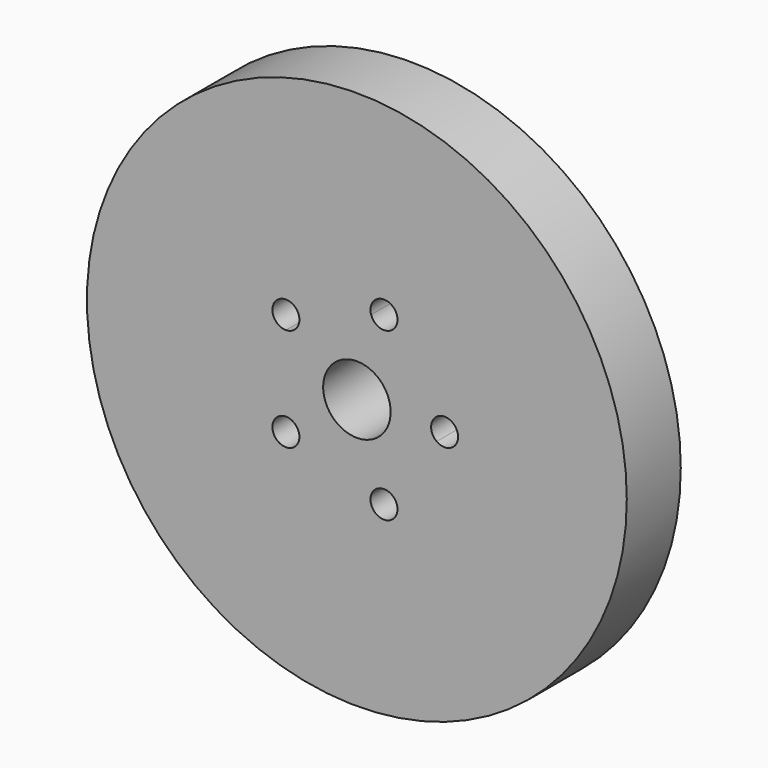
from build123d import *

# Parameters (mm, degrees)
F0_R     = 20
F1_DEPTH = 5


with BuildPart() as f1:
    # F0 (on Front) → F1 (new body)
    with BuildSketch(Plane.XZ):
        Circle(F0_R)
        with BuildLine():
            ThreePointArc((-4.307554, -4.129621), (-6.067627, -4.408389), (-5.25861, -2.820604))
            Line((-5.25861, -2.820604), (-5.25861, 2.820604))
            ThreePointArc((-5.25861, 2.820604), (-6.067627, 4.408389), (-4.307554, 4.129621))
            Line((-4.307554, 4.129621), (1.057554, 5.87285))
            ThreePointArc((1.057554, 5.87285), (1.852176, 7.169556), (3.00861, 6.181867))
            ThreePointArc((3.00861, 6.181867), (2.899617, 5.727877), (2.596396, 5.37285))
            Line((2.596396, 5.37285), (5.912215, 0.809017))
            ThreePointArc((5.912215, 0.809017), (6.95399, 0.891007), (7.5, 0))
            ThreePointArc((7.5, 0), (6.95399, -0.891007), (5.912215, -0.809017))
            Line((5.912215, -0.809017), (2.596396, -5.37285))
            ThreePointArc((2.596396, -5.37285), (2.899617, -5.727877), (3.00861, -6.181867))
            ThreePointArc((3.00861, -6.181867), (1.852176, -7.169556), (1.057554, -5.87285))
            Line((1.057554, -5.87285), (-4.307554, -4.129621))
        make_face(mode=Mode.SUBTRACT)
        with BuildLine():
            Line((-5.25861, 2.820604), (-5.25861, -2.820604))
            ThreePointArc((-5.25861, -2.820604), (-4.551504, -3.113497), (-4.25861, -3.820604))
            ThreePointArc((-4.25861, -3.820604), (-4.270922, -3.977039), (-4.307554, -4.129621))
            Line((-4.307554, -4.129621), (1.057554, -5.87285))
            ThreePointArc((1.057554, -5.87285), (1.699593, -5.230811), (2.596396, -5.37285))
            Line((2.596396, -5.37285), (5.912215, -0.809017))
            ThreePointArc((5.912215, -0.809017), (5.5, 0), (5.912215, 0.809017))
            Line((5.912215, 0.809017), (2.596396, 5.37285))
            ThreePointArc((2.596396, 5.37285), (1.699593, 5.230811), (1.057554, 5.87285))
            Line((1.057554, 5.87285), (-4.307554, 4.129621))
            ThreePointArc((-4.307554, 4.129621), (-4.270922, 3.977039), (-4.25861, 3.820604))
            ThreePointArc((-4.25861, 3.820604), (-4.551504, 3.113497), (-5.25861, 2.820604))
        make_face()
        with BuildLine():
            ThreePointArc((1.5, 2), (2.236068, 1.118034), (2.5, 0))
            ThreePointArc((2.5, 0), (2.236068, -1.118034), (1.5, -2))
            ThreePointArc((1.5, -2), (-2.5, 0), (1.5, 2))
        make_face(mode=Mode.SUBTRACT)
    extrude(amount=F1_DEPTH)


solid = f1.part
